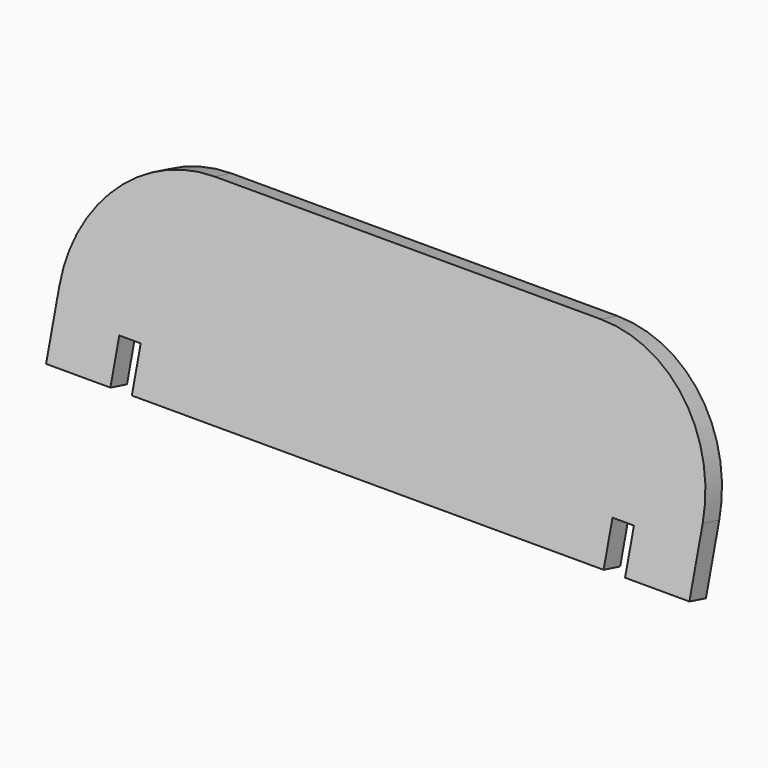
from build123d import *

# Parameters (mm, degrees)
PAD003_DEPTH            = 50.8
BODY003_PLACEMENT_ANGLE = 15


with BuildPart() as part:
    # Sketch003 → Pad003 (new body)
    with BuildSketch(Plane.XZ):
        with BuildLine():
            Line((-130.379928, 312.132536), (-130.379928, 159.732536))
            Line((-130.379928, 159.732536), (22.020072, 159.732536))
            Line((22.020072, 261.332536), (22.020072, 159.732536))
            Line((72.820072, 261.332536), (22.020072, 261.332536))
            Line((72.820072, 159.732536), (72.820072, 261.332536))
            Line((72.820072, 159.732536), (1190.420072, 159.732536))
            Line((1190.420072, 261.332536), (1190.420072, 159.732536))
            Line((1241.220072, 261.332536), (1190.420072, 261.332536))
            Line((1241.220072, 159.732536), (1241.220072, 261.332536))
            Line((1241.220072, 159.732536), (1393.620072, 159.732536))
            Line((1393.620072, 159.732536), (1393.620072, 312.132536))
            ThreePointArc((1393.620072, 312.132536), (1304.346219, 527.658683), (1088.820072, 616.932536))
            Line((1088.820072, 616.932536), (174.420072, 616.932536))
            ThreePointArc((174.420072, 616.932536), (-41.106075, 527.658683), (-130.379928, 312.132536))
        make_face()
    extrude(amount=PAD003_DEPTH)


with BuildPart() as part_1:
    # Body003 placement: moved
    add(part.part.moved(Location((0, 183.716529, -79.469557))).rotate(Axis((0, 183.716529, -79.469557), (-1, 0, 0)), BODY003_PLACEMENT_ANGLE))


solid = part_1.part
